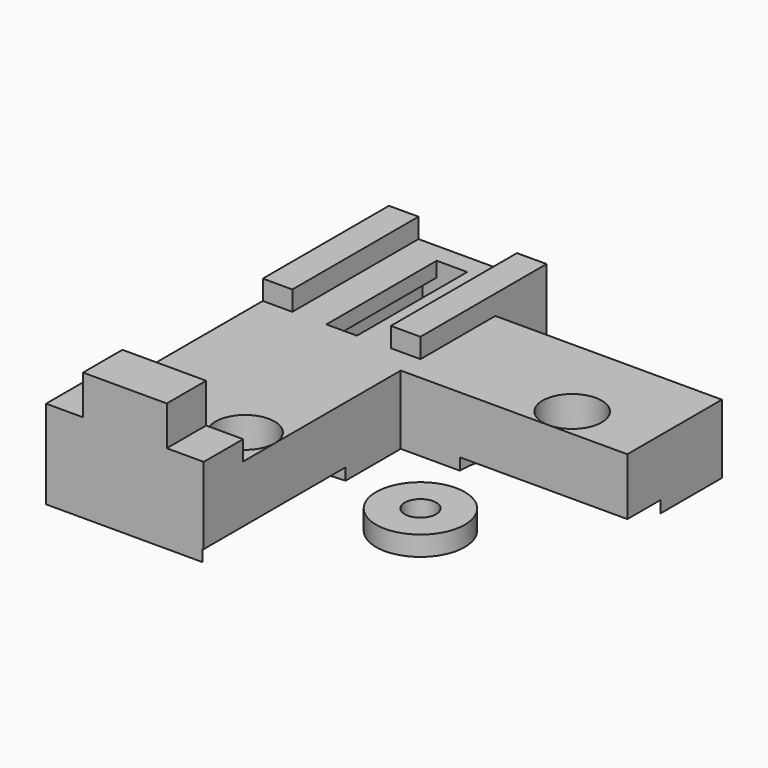
from build123d import *

# Parameters (mm, degrees)
SKETCH002_R                          = 1.6
EXTRUDE002_DEPTH                     = 8
SKETCH003_R                          = 5.5
EXTRUDE003_DEPTH                     = 3.5
EXTRUDE006_DEPTH                     = 14
EXTRUDE006_ONTO_SKETCH006_ROLL_ANGLE = 90
SKETCH007_R                          = 3
EXTRUDE007_DEPTH                     = 10
EXTRUDE001_DEPTH                     = 1.2
EXTRUDE005_DEPTH                     = 5
EXTRUDE005_ONTO_SKETCH005_ROLL_ANGLE = 90
SKETCH004_W                          = 3
SKETCH004_H                          = 16
EXTRUDE008_DEPTH                     = 2
EXTRUDE_DEPTH                        = 7
SKETCH008_R                          = 4.5
SKETCH008_R_2                        = 1.6
EXTRUDE009_DEPTH                     = 2


with BuildPart() as extrude002:
    # Sketch002 → Extrude002 (new body)
    with BuildSketch(Plane.XY):
        with Locations((15, 3)):
            Circle(SKETCH002_R)
        with Locations((-3, -16)):
            Circle(SKETCH002_R)
    extrude(amount=EXTRUDE002_DEPTH)


with BuildPart() as extrude003:
    # Sketch003 → Extrude003 (new body)
    with BuildSketch(Plane.XY):
        with Locations((-4, 6)):
            Circle(SKETCH003_R)
    extrude(amount=EXTRUDE003_DEPTH)


with BuildPart() as extrude007:
    # Sketch006 as drawn → Extrude006 (new)
    with BuildSketch(Plane.XY):
        Polygon((-9.55, -1), (-9.55, 9), (-6.45, 9), (-6.45, -1), (-5, -1), (-5, -4), (-6.45, -4), (-6.45, -5.5), (-9.55, -5.5), (-9.55, -4), (-11, -4), (-11, -1), align=None)
    extrude(amount=EXTRUDE006_DEPTH)


with BuildPart() as extrude007_1:
    # Extrude006 onto Sketch006 roll: moved
    add(extrude007.part.rotate(Axis((0, 0, 0), (1, 0, 0)), EXTRUDE006_ONTO_SKETCH006_ROLL_ANGLE))


with BuildPart() as extrude007_2:
    # Extrude006 onto Sketch006 placement: moved
    add(extrude007_1.part)


with BuildPart() as extrude007_3:
    # Extrude006 placement: moved
    add(extrude007_2.part.moved(Location((0, 16.5, 6.5))))


with BuildPart() as extrude008:
    # Sketch007 → Extrude007 (new body)
    with BuildSketch(Plane.XY):
        with Locations((15, 3)):
            Circle(SKETCH007_R)
        with Locations((-3, -16)):
            Circle(SKETCH007_R)
    extrude(amount=EXTRUDE007_DEPTH)


with BuildPart() as extrude008_1:
    # Extrude007 placement: moved
    add(extrude008.part.moved(Location((0, 0, 3))))


with BuildPart() as fusion:
    # Sketch001 → Extrude001 (new body)
    with BuildSketch(Plane.XY):
        with BuildLine():
            ThreePointArc((24, 0.1), (15, 9.1), (6, 0.1))
            Line((6, 0.1), (6, 0))
            Line((6, 0), (24, 0))
            Line((24, 0.1), (24, 0))
        make_face()
        with BuildLine():
            ThreePointArc((-0.1, -7), (-9.1, -16), (-0.1, -25))
            Line((-0.1, -25), (0, -25))
            Line((0, -25), (0, -7))
            Line((-0.1, -7), (0, -7))
        make_face()
    extrude(amount=EXTRUDE001_DEPTH)

    # Fusion: union Extrude002, Extrude003, Extrude007, Extrude008
    add(extrude002.part)
    add(extrude003.part)
    add(extrude007_3.part)
    add(extrude008_1.part)


with BuildPart() as extrude006:
    # Sketch005 as drawn → Extrude005 (new)
    with BuildSketch(Plane.XY):
        Polygon((-16, 0), (-16, 2), (-12.25, 2), (-12.25, 6), (-3.75, 6), (-3.75, 2), (0, 2), (0, 0), align=None)
    extrude(amount=EXTRUDE005_DEPTH)


with BuildPart() as extrude006_1:
    # Extrude005 onto Sketch005 roll: moved
    add(extrude006.part.rotate(Axis((0, 0, 0), (1, 0, 0)), EXTRUDE005_ONTO_SKETCH005_ROLL_ANGLE))


with BuildPart() as extrude006_2:
    # Extrude005 onto Sketch005 placement: moved
    add(extrude006_1.part)


with BuildPart() as extrude006_3:
    # Extrude005 placement: moved
    add(extrude006_2.part.moved(Location((0, -20, 7))))


with BuildPart() as extrude009:
    # Sketch004 → Extrude008 (new body)
    with BuildSketch(Plane.XY):
        with Locations((-14.5, 10.5)):
            Rectangle(SKETCH004_W, SKETCH004_H)
        with Locations((-1.5, 10.5)):
            Rectangle(SKETCH004_W, SKETCH004_H)
    extrude(amount=EXTRUDE008_DEPTH)


with BuildPart() as extrude009_1:
    # Extrude008 placement: moved
    add(extrude009.part.moved(Location((0, 0, 7))))


with BuildPart() as cut:
    # Sketch → Extrude (new body)
    with BuildSketch(Plane.XY):
        Polygon((-16, 18.5), (0, 18.5), (0, 12), (23, 12), (23, 0), (0, 0), (0, -25), (-16, -25), align=None)
    extrude(amount=EXTRUDE_DEPTH)

    # Fusion001: union Extrude006, Extrude009
    add(extrude006_3.part)
    add(extrude009_1.part)

    # Cut: cut Fusion
    add(fusion.part, mode=Mode.SUBTRACT)


with BuildPart() as entretoise:
    # Sketch008 → Extrude009 (new body)
    with BuildSketch(Plane.XY):
        with Locations((10, -10)):
            Circle(SKETCH008_R)
        with Locations((10, -10)):
            Circle(SKETCH008_R_2, mode=Mode.SUBTRACT)
    extrude(amount=EXTRUDE009_DEPTH)


solid = Compound([cut.part, entretoise.part])
